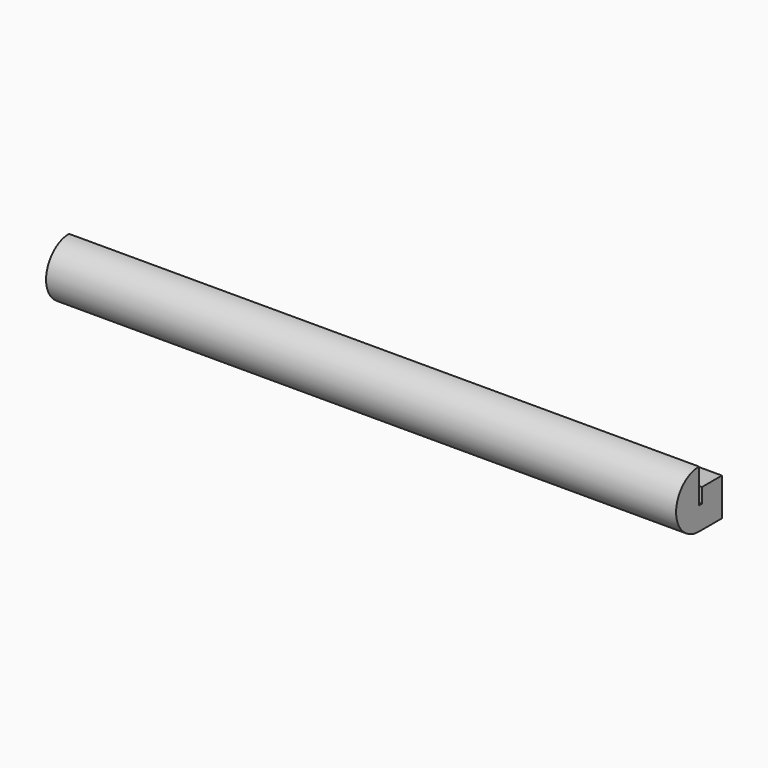
from build123d import *

# Parameters (mm, degrees)
F1_DEPTH = 279.4


with BuildPart() as f1:
    # F0 (on Right) → F1 (new body)
    with BuildSketch(Plane.YZ):
        with BuildLine():
            Line((0, -15.190765), (0, 0))
            ThreePointArc((0, 0), (-12.7, -12.7), (0, -25.4))
            Line((0, -25.4), (0, -15.190765))
        make_face()
        Polygon((1.590656, -15.190765), (0, -15.190765), (0, -25.4), (12.7, -25.4), (12.7, -8.669076), (1.590656, -8.669076), align=None)
    extrude(amount=F1_DEPTH)


solid = f1.part
